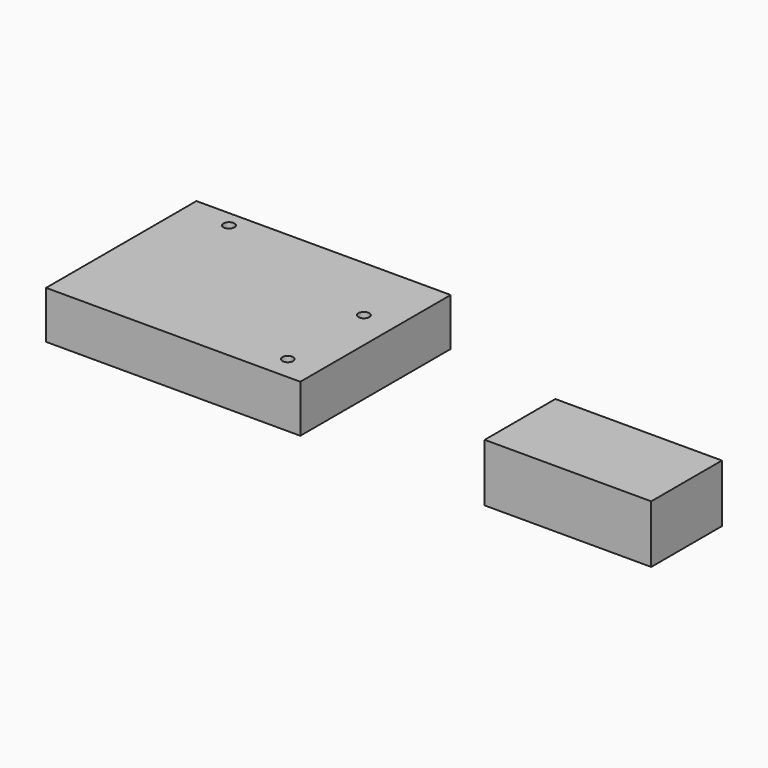
from build123d import *

# Parameters (mm, degrees)
F0_W     = 74.8
F0_H     = 55.3
F0_R     = 1.6
F1_DEPTH = 7
F2_W     = 49
F2_H     = 26
F3_DEPTH = 8.5


with BuildPart() as f1:
    # F0 (on Top) → F1 (new body, symmetric)
    with BuildSketch(Plane.XY):
        Rectangle(F0_W, F0_H)
        with Locations((28.1, -20.65)):
            Circle(F0_R, mode=Mode.SUBTRACT)
        with Locations((-24, 22.85)):
            Circle(F0_R, mode=Mode.SUBTRACT)
        with Locations((28.1, 7.35)):
            Circle(F0_R, mode=Mode.SUBTRACT)
    extrude(amount=F1_DEPTH, both=True)


with BuildPart() as f3:
    # F2 (on Top) → F3 (new body, symmetric)
    with BuildSketch(Plane.XY):
        with Locations((114.814284, -13)):
            Rectangle(F2_W, F2_H)
    extrude(amount=F3_DEPTH, both=True)


solid = Compound([f1.part, f3.part])
